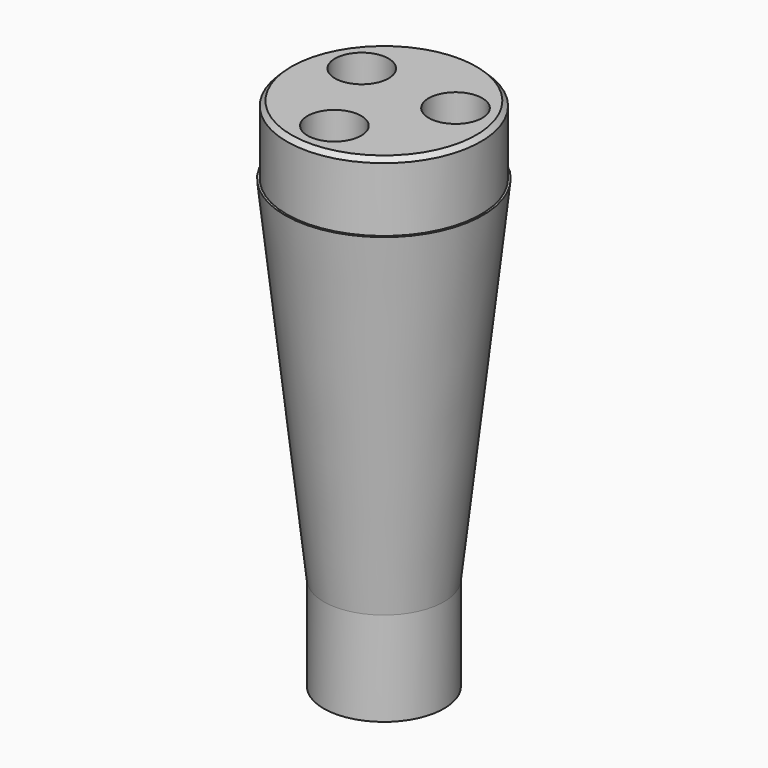
from build123d import *

# Parameters (mm, degrees)
F2_SIZE  = 1.5
F5_R     = 9
F6_DEPTH = 50


with BuildPart() as f1:
    # F0 (on Front) → F1 (revolve)
    with BuildSketch(Plane.XZ):
        Polygon((0, 66.266628), (-32.55, 66.266628), (-32.55, 43.266628), (-33.25, 43.266628), (-20.2, -75.179155), (-20.2, -106.733372), (0, -106.733372), align=None)
    revolve(axis=Axis((0, 0, -2.596696), (0, 0, -1)))

    # F2
    f2_edges = [f1.edges().sort_by_distance(p)[0] for p in [
        (32.55, 0, 66.266628),
    ]]
    chamfer(f2_edges, length=F2_SIZE)

    # F3 (on Right) → F4 (revolve, cut)
    with BuildSketch(Plane.YZ):
        Polygon((-9, -120), (0, -120), (0, 0), (0, 34.116209), (-9, 34.116209), (-9, 0), align=None)
    revolve(axis=Axis((0, 0, -20.233372), (0, 0, -1)), mode=Mode.SUBTRACT)

    # F5 (on face) → F6 (cut)
    with BuildSketch(Plane.XY.offset(66.266628)):
        with Locations((-15.971139, 10.688378)):
            Circle(F5_R)
        with Locations((17.241976, 8.487223)):
            Circle(F5_R)
        with Locations((-1.270837, -19.175601)):
            Circle(F5_R)
    extrude(amount=-F6_DEPTH, mode=Mode.SUBTRACT)


solid = f1.part
